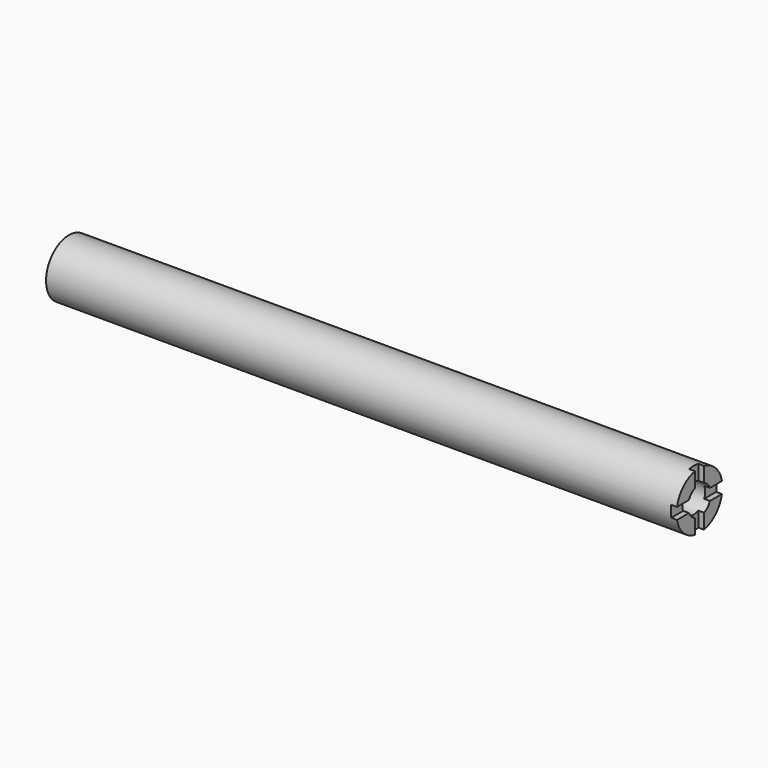
from build123d import *

# Parameters (mm, degrees)
F0_R     = 12.7
F1_DEPTH = 279.4
F2_R     = 6.35
F3_DEPTH = 25.4
F5_DEPTH = 2.54


with BuildPart() as f1:
    # F0 (on Right) → F1 (new body)
    with BuildSketch(Plane.YZ):
        Circle(F0_R)
    extrude(amount=F1_DEPTH)

    # F2 (on face) → F3 (cut)
    with BuildSketch(Plane.YZ.offset(279.4)):
        Circle(F2_R)
    extrude(amount=-F3_DEPTH, mode=Mode.SUBTRACT)

    # F4 (on face) → F5 (cut)
    with BuildSketch(Plane.YZ.offset(279.4)):
        with BuildLine():
            Line((-5.8198711326, 2.54), (-12.4434078933, 2.54))
            ThreePointArc((-12.4434078933, 2.54), (-12.6356891432, 1.2764638175), (-12.7, 0))
            ThreePointArc((-12.7, 0), (-12.6356891432, -1.2764638175), (-12.4434078933, -2.54))
            Line((-12.4434078933, -2.54), (-5.8198711326, -2.54))
            ThreePointArc((-5.8198711326, -2.54), (-6.35, 0), (-5.8198711326, 2.54))
        make_face()
        with BuildLine():
            Line((12.4434078933, 2.54), (5.8198711326, 2.54))
            ThreePointArc((5.8198711326, 2.54), (6.2160550871, 1.2973662374), (6.35, 0))
            ThreePointArc((6.35, 0), (6.2160550871, -1.2973662374), (5.8198711326, -2.54))
            Line((5.8198711326, -2.54), (12.4434078933, -2.54))
            ThreePointArc((12.4434078933, -2.54), (12.6356891432, -1.2764638175), (12.7, 0))
            ThreePointArc((12.7, 0), (12.6356891432, 1.2764638175), (12.4434078933, 2.54))
        make_face()
        with BuildLine():
            ThreePointArc((0, 12.7), (-1.2764638175, 12.6356891432), (-2.54, 12.4434078933))
            Line((-2.54, 12.4434078933), (-2.54, 5.8198711326))
            ThreePointArc((-2.54, 5.8198711326), (0, 6.35), (2.54, 5.8198711326))
            Line((2.54, 5.8198711326), (2.54, 12.4434078933))
            ThreePointArc((2.54, 12.4434078933), (1.2764638175, 12.6356891432), (0, 12.7))
        make_face()
        with BuildLine():
            Line((-2.54, -5.8198711326), (-2.54, -12.4434078933))
            ThreePointArc((-2.54, -12.4434078933), (-1.2764638175, -12.6356891432), (0, -12.7))
            ThreePointArc((0, -12.7), (1.2764638175, -12.6356891432), (2.54, -12.4434078933))
            Line((2.54, -12.4434078933), (2.54, -5.8198711326))
            ThreePointArc((2.54, -5.8198711326), (0, -6.35), (-2.54, -5.8198711326))
        make_face()
    extrude(amount=-F5_DEPTH, mode=Mode.SUBTRACT)


solid = f1.part
